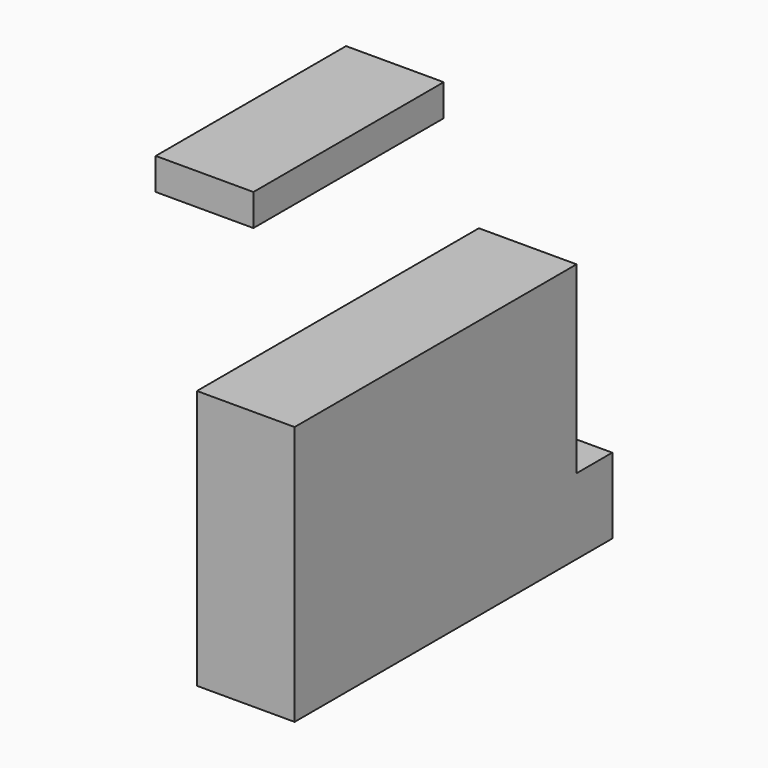
from build123d import *

# Parameters (mm, degrees)
F0_W     = 11.6000063717
F0_H     = 19.6698009968
F1_DEPTH = 25.4
F0_W_2   = 61.8476495147
F0_H_2   = 8.259370923


with BuildPart() as f1:
    # F0 (on Right) → F1 (new body)
    with BuildSketch(Plane.YZ):
        with Locations((47.9467269033, -24.1293162107)):
            Rectangle(F0_W, F0_H)
        with Locations((36.3467205316, -24.1293162107)):
            Rectangle(F0_W, F0_H)
        Polygon((-49.493253231, -33.9642167091), (30.5467173457, -33.9642167091), (30.5467173457, -14.2944157124), (42.1467237175, -14.2944157124), (42.1467237175, 33.5307754576), (-49.493253231, 33.5307754576), align=None)
        with Locations((36.3467205316, -24.1293162107)):
            Rectangle(F0_W, F0_H)
        Polygon((-49.493253231, -33.9642167091), (30.5467173457, -33.9642167091), (30.5467173457, -14.2944157124), (42.1467237175, -14.2944157124), (42.1467237175, 33.5307754576), (-49.493253231, 33.5307754576), align=None)
    extrude(amount=F1_DEPTH)


with BuildPart() as f1b:
    # F0 (on Right) → F1, piece 2 (new body)
    with BuildSketch(Plane.YZ):
        with Locations((-31.9549031556, 88.6460468173)):
            Rectangle(F0_W_2, F0_H_2)
    extrude(amount=F1_DEPTH)


solid = Compound([f1.part, f1b.part])
